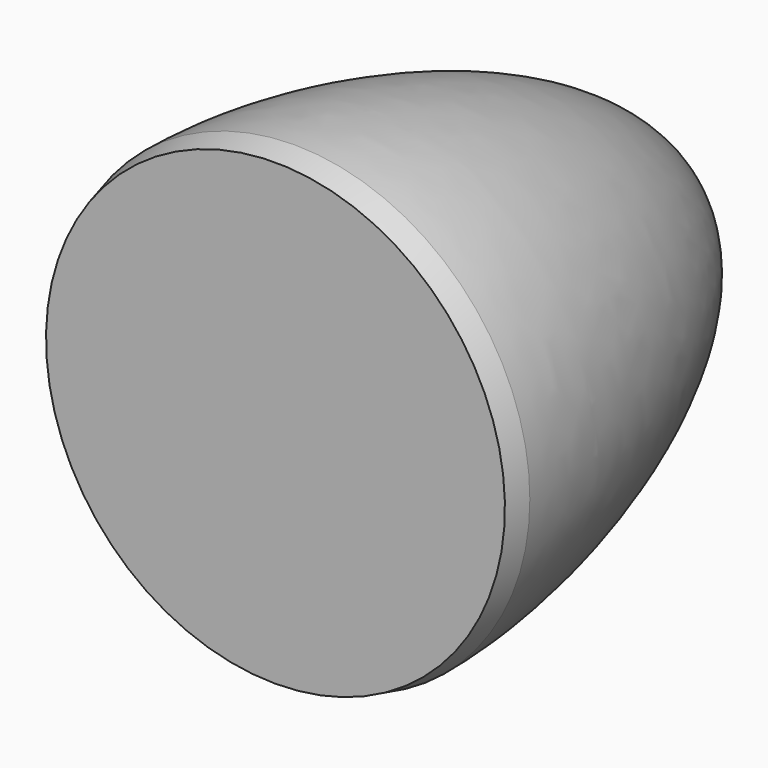
from build123d import *


with BuildPart() as f1:
    # F0 (on Right) → F1 (revolve)
    with BuildSketch(Plane.YZ):
        with BuildLine():
            Line((-0.4, -3.8685), (0, -3.9685))
            add(Edge.make_bspline(
                [(0, -3.9685), (2.893429, -3.9685), (7.72, -2.429563), (7.72, 0)],
                knots=[0, 0, 0, 0, 8.680288, 8.680288, 8.680288, 8.680288], degree=3))
            Line((7.72, 0), (-0.4, 0))
            Line((-0.4, 0), (-0.4, -3.8685))
        make_face()
    revolve(axis=Axis((0, 0.128741, 0), (0, 1, 0)))


solid = f1.part
